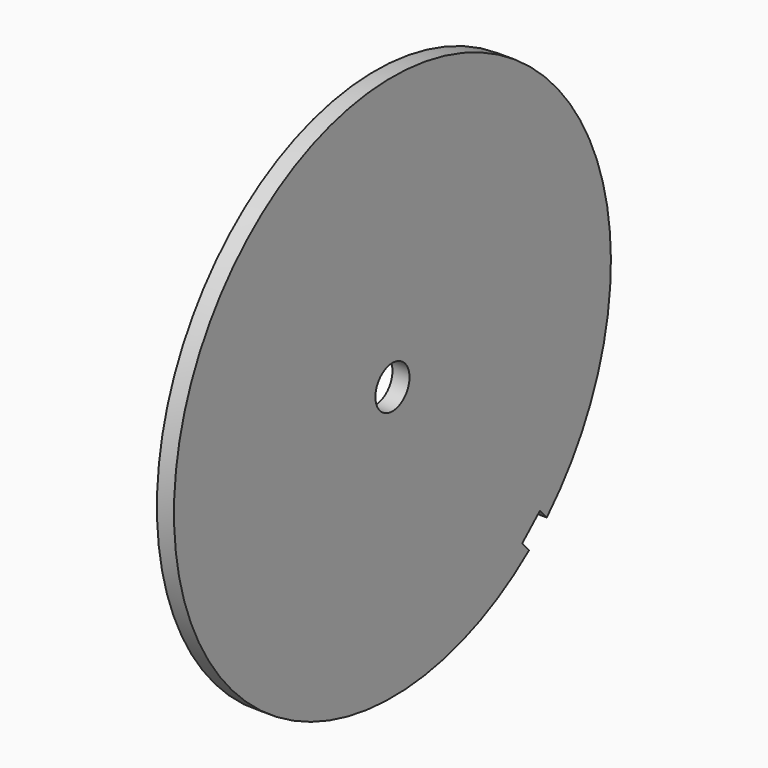
from build123d import *

# Parameters (mm, degrees)
F0_R     = 2.5
F1_DEPTH = 2


with BuildPart() as f1:
    # F0 (on Right) → F1 (new body)
    with BuildSketch(Plane.YZ):
        with BuildLine():
            Line((21.608336, -21.528434), (22.608469, -22.646349))
            ThreePointArc((22.608469, -22.646349), (-21.336164, 23.84886), (20, -24.979992))
            Line((20, -24.979992), (18.999867, -23.862077))
            Line((18.999867, -23.862077), (21.608336, -21.528434))
        make_face()
        Circle(F0_R, mode=Mode.SUBTRACT)
    extrude(amount=F1_DEPTH)


solid = f1.part
